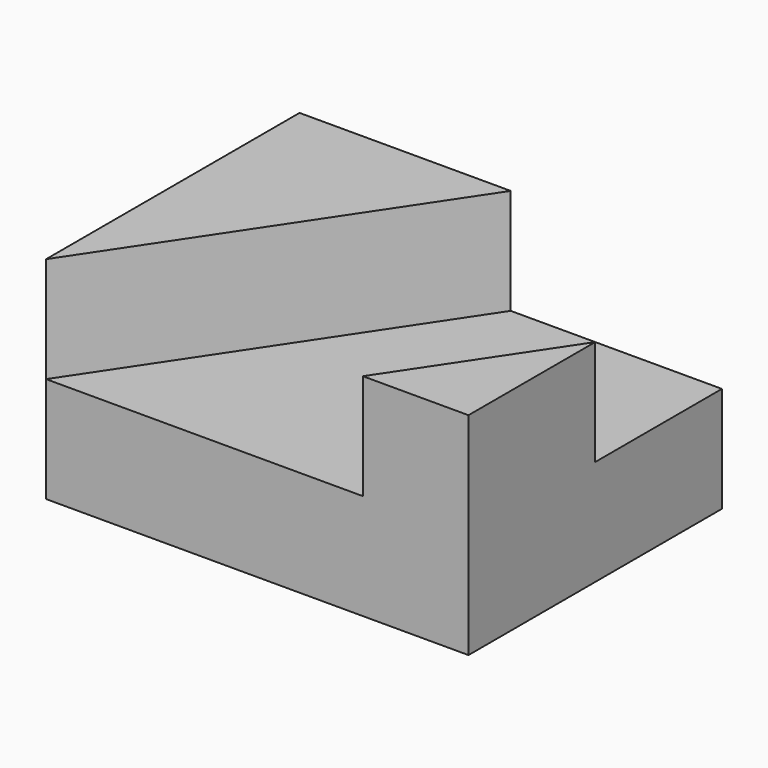
from build123d import *

# Parameters (mm, degrees)
F0_W     = 101.6
F0_H     = 76.2
F1_DEPTH = 25.4
F3_DEPTH = 25.4
F5_DEPTH = 25.4


with BuildPart() as f1:
    # F0 (on Top) → F1 (new body)
    with BuildSketch(Plane.XY):
        with Locations((-12.35143, -30.653376)):
            Rectangle(F0_W, F0_H)
    extrude(amount=F1_DEPTH)

    # F2 (on face) → F3 (join)
    with BuildSketch(Plane.XY.offset(25.4)):
        Polygon((-63.15143, -68.753376), (-12.35143, 7.446624), (-63.15143, 7.446624), align=None)
    extrude(amount=F3_DEPTH)

    # F4 (on face) → F5 (join)
    with BuildSketch(Plane.XY.offset(25.4)):
        Polygon((38.44857, -30.653376), (13.04857, -68.753376), (38.44857, -68.753376), align=None)
    extrude(amount=F5_DEPTH)


solid = f1.part
